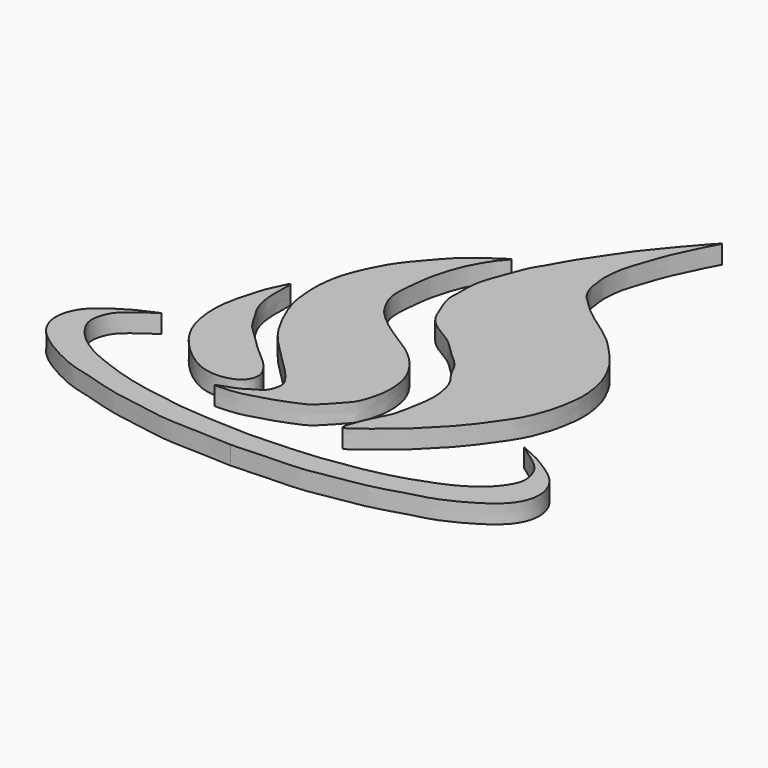
from build123d import *

# Parameters (mm, degrees)
F1_DEPTH = 0.5842


with BuildPart() as f1:
    # F0 (on Top) → F1 (new body)
    with BuildSketch(Plane.XY):
        with BuildLine():
            add(Edge.make_bspline(
                [(-4.3409126811, 0.8235150017), (-4.3638831654, 0.8328154626), (-4.4785320566, 0.5770251955), (-4.6622274709, 0.2269415499), (-4.8581053313, -0.4898232788), (-5.0354593658, -1.2469129385), (-4.9222192867, -2.3739066689), (-4.3654501317, -3.2620627935), (-3.4560117167, -4.02535282), (-2.7699137962, -4.1455398343), (-2.4004253735, -4.0835943094), (-2.0639183025, -3.9548409023), (-1.8790579169, -3.6670637842), (-1.8795913256, -3.325562636), (-2.2374478718, -2.843176857), (-2.7864582925, -2.4255477872), (-3.1893458529, -1.9868189477), (-3.6803623412, -1.5695431559), (-3.8882612208, -1.18309249), (-4.1979864203, -0.7090708682), (-4.3198954975, -0.1915194674), (-4.3461730169, 0.2774615729), (-4.3076349978, 0.8100412852), (-4.3409126811, 0.8235150017)],
                knots=[0, 0, 0, 0, 0.029960692, 0.0720755119, 0.1254410697, 0.1816633906, 0.2472377289, 0.3120818992, 0.3800778207, 0.4312008069, 0.4691196187, 0.5060143746, 0.5413555971, 0.5764363354, 0.6243116539, 0.6770139401, 0.7262003703, 0.7759363067, 0.8177459305, 0.8646733635, 0.9097553394, 0.9565954987, 1, 1, 1, 1], degree=3))
        make_face()
    extrude(amount=F1_DEPTH)


with BuildPart() as f1b:
    # F0 (on Top) → F1, piece 2 (new body)
    with BuildSketch(Plane.XY):
        with BuildLine():
            add(Edge.make_bspline(
                [(-0.9033490205, 5.2720510866), (-0.9279823558, 5.2907388524), (-1.601067188, 4.8222579912), (-2.0133987526, 4.495511311), (-2.6203693973, 3.7953321275), (-3.0955012862, 3.2286000559), (-3.5113334289, 2.3745012416), (-3.6884009297, 1.8207103822), (-3.7791912725, 1.1815485297), (-3.7380409609, 0.5647163974), (-3.6749609254, 0.0574472654), (-3.3879425603, -0.6653436776), (-2.9399249124, -1.5211470384), (-2.1640246735, -2.2627692494), (-1.5097005527, -2.9206157649), (-1.3424440841, -3.1131961216), (-1.1478161327, -3.3876763119), (-1.1154145654, -3.5935645943), (-1.21416015, -4.0050790879), (-1.5725488375, -4.1597466188), (-1.766471688, -4.3147063638), (-1.9958105817, -4.3980403052), (-2.2293944508, -4.4959747287), (-2.6114781549, -4.5989941223), (-1.6730451577, -4.5631360498), (-1.2595041701, -4.3891000168), (-0.7872921269, -4.2878050682), (-0.2280275202, -4.0533826785), (0.1105048146, -3.9155064576), (0.5430619067, -3.4360310153), (0.8928727293, -3.0809587886), (1.0357752487, -2.6047892816), (1.1417555648, -2.0985146124), (1.0542657775, -1.1974842231), (0.4145184934, -0.3746388083), (-0.2281413252, 0.0734033036), (-1.0039304524, 0.5404110445), (-1.3569055763, 0.8580253942), (-1.6354892893, 1.112340462), (-1.8387799209, 1.4884599777), (-2.01665344, 1.8707203932), (-1.9810714704, 2.494437832), (-1.9228061153, 2.9113756773), (-1.8901832964, 3.253129347), (-1.7496316322, 3.7571486011), (-1.64932091, 4.0492154316), (-1.5274158439, 4.3668539259), (-1.1750950129, 4.9621427665), (-1.0239242979, 5.1152905075), (-0.8919001164, 5.2633655215), (-0.9033490205, 5.2720510866)],
                knots=[0, 0, 0, 0, 0.0245603338, 0.0481947265, 0.0751417918, 0.1007052008, 0.1285097117, 0.1507506118, 0.1737751972, 0.1964095567, 0.2169482626, 0.2421456121, 0.2706057713, 0.301302539, 0.3286411923, 0.3433916942, 0.3594638932, 0.3727346847, 0.3906876189, 0.4083670209, 0.4227400709, 0.4367024619, 0.4524477819, 0.464509468, 0.4882021287, 0.5094255836, 0.5292224362, 0.5515282692, 0.5691776219, 0.5920479487, 0.6126830091, 0.6324621162, 0.653203656, 0.6802782686, 0.7093801941, 0.7354524903, 0.7627824851, 0.7826679011, 0.8001152128, 0.8187531655, 0.8375663006, 0.8602595707, 0.879034597, 0.8960600502, 0.9168732374, 0.9328194582, 0.9499492842, 0.9737101245, 0.988585025, 1, 1, 1, 1], degree=3))
        make_face()
    extrude(amount=F1_DEPTH)


with BuildPart() as f1c:
    # F0 (on Top) → F1, piece 3 (new body)
    with BuildSketch(Plane.XY):
        with BuildLine():
            add(Edge.make_bspline(
                [(-0.0494266093, 5.5272457981), (-0.1218350109, 5.4085314828), (-0.278482645, 5.186838474), (-0.4343362878, 4.7363992233), (-0.5599437028, 4.3874003778), (-0.8356784365, 3.691325428), (-0.7806786781, 3.0090164508), (-0.8444665371, 2.6678563826), (-0.5809721487, 1.9963362907), (-0.3909314077, 1.5652937893), (-0.0133795377, 1.2347286799), (0.6426124518, 0.8970347753), (1.0280875762, 0.4213200711), (1.5700318355, 0.023211373), (1.7546364731, -0.4918969363), (2.073461996, -0.8027231166), (2.2656548038, -1.6308230398), (2.1277467217, -2.3516150221), (2.0120337094, -3.0472971545), (1.7631853402, -3.4148087736), (1.3898742318, -4.3170203821), (1.4624504838, -4.3721881229)],
                knots=[0.6798154523, 0.6798154523, 0.6798154523, 0.6798154523, 0.6934369603, 0.7084823768, 0.7220783824, 0.7411179752, 0.7591668807, 0.7721437093, 0.7905084414, 0.8057883023, 0.8211011729, 0.8399102841, 0.8573391705, 0.8752023157, 0.8910562275, 0.9055537836, 0.9253559543, 0.9447231724, 0.9624291529, 0.9790106218, 1, 1, 1, 1], degree=3))
            add(Edge.make_bspline(
                [(1.4624504838, -4.3721881229), (1.5020962664, -4.4023242652), (1.7235511679, -4.2162377946), (1.826643907, -4.1560159103), (2.2371734743, -3.8537370522), (2.4338796023, -3.6414263579), (2.7863222447, -3.3966190795), (2.9272559401, -3.2086453557), (3.4380997701, -2.7428824022), (3.7619606591, -2.3549656925), (3.9987188552, -2.0513475586), (4.2254136288, -1.7335050143), (4.4861622473, -1.3519910979), (4.6920591732, -1.0029199492), (4.9141267034, -0.4025614485), (4.9890051064, 0.0067921248), (5.0781916133, 0.5320916491), (5.043343058, 1.0181288643), (4.9525400934, 1.4864984154), (4.792488769, 1.8915793843), (4.4979916871, 2.4610446678), (4.0504256811, 2.9366261403), (3.5738916003, 3.4583073755), (2.9113141266, 3.9038707842), (2.3940735967, 4.2774584892), (2.0873825516, 4.5751001046), (1.7190843077, 4.9197729549), (1.5562276459, 5.3460703549), (1.5109164877, 5.8262505652), (1.5006377241, 6.0172135994), (1.5356111535, 6.3705628583), (1.5894694945, 6.6766368462), (1.7121155992, 7.0241783091), (1.8308484388, 7.3791162285), (1.9927173449, 7.855992333), (2.1537022094, 8.1688449506), (2.3602830801, 8.6250536068), (2.493635141, 8.8930968871), (2.7683719499, 9.3666169676), (2.1688480606, 8.6575300529), (1.9052232794, 8.3750839168), (1.6799210394, 8.069333157), (1.4203683935, 7.7856469672), (1.152712394, 7.4419900211), (0.8512999285, 6.9704658529), (0.6033137997, 6.6283553723), (0.2290828757, 6.0582380656), (0.0492706925, 5.6905711629), (-0.0443716324, 5.5355334844), (-0.0494266093, 5.5272457981)],
                knots=[0, 0, 0, 0, 0.0114657384, 0.0205538178, 0.035700569, 0.0483575671, 0.0622200075, 0.0732071756, 0.0913286559, 0.1074146374, 0.1208690944, 0.1346735128, 0.1495117479, 0.1638060087, 0.1812311337, 0.1957282763, 0.2116135468, 0.2271383012, 0.2421827278, 0.2567479425, 0.2742583259, 0.2921375838, 0.3107002569, 0.3305461403, 0.348088542, 0.3625073536, 0.3778760764, 0.3929583905, 0.4079794459, 0.4177822337, 0.4306240455, 0.4431600963, 0.4563497147, 0.470066842, 0.4855474674, 0.4989474215, 0.5141884901, 0.5275859938, 0.5389011418, 0.5563899476, 0.5717104931, 0.5848186875, 0.5984234306, 0.6131247541, 0.6294648663, 0.6440170465, 0.6621649464, 0.6788645073, 0.6798154523, 0.6798154523, 0.6798154523, 0.6798154523], degree=3))
        make_face()
    extrude(amount=F1_DEPTH)


with BuildPart() as f1d:
    # F0 (on Top) → F1, piece 4 (new body)
    with BuildSketch(Plane.XY):
        with BuildLine():
            add(Edge.make_bspline(
                [(-5.8600385673, -2.3792907596), (-6.0527758314, -2.5115119147), (-6.5075346665, -2.8234821356), (-6.8828172226, -3.1739471336), (-7.0507541362, -3.7756684964), (-6.8370696363, -4.2223132645), (-6.4467168512, -4.6856149853), (-5.794834382, -5.0882465882), (-5.2236284604, -5.3136284816), (-4.4870752267, -5.5807697737), (-3.8715953267, -5.7234133152), (-3.5773211605, -5.7921165394), (-2.4830761417, -5.9617137095), (-2.3144532073, -5.9816128357), (-1.7196691849, -6.0319875708), (-1.5960028503, -6.0408920355), (-1.4247877109, -6.0521947677), (-1.0368340555, -6.0694378416), (-0.451109519, -6.093693155), (-0.1244624145, -6.1044190079)],
                knots=[0, 0, 0, 0, 0.0715418106, 0.1303085415, 0.1913210664, 0.2468454398, 0.3098047629, 0.3802148709, 0.4444532684, 0.5169503011, 0.5794622094, 0.6275975246, 0.7104408454, 0.7501980031, 0.8106343792, 0.8402842717, 0.8713668679, 0.9212438911, 1, 1, 1, 1], degree=3))
            add(Edge.make_bspline(
                [(-5.8600385673, -2.3792907596), (-6.0788389095, -2.4719771325), (-6.5006661689, -2.650668072), (-7.0009732214, -2.9777023027), (-7.5581703969, -3.3795728437), (-7.8451419065, -4.0621419502), (-7.6740638103, -4.7852590686), (-7.0102329455, -5.394161721), (-5.860881788, -5.9748267909), (-5.2456340881, -6.0782309187), (-4.2182575516, -6.4377462844), (-3.3569956627, -6.5243728035), (-2.4220530145, -6.7435891806), (-1.4598632785, -6.7600518978), (-0.6747261487, -6.7874728787), (-0.2960682565, -6.8079348675), (-0.1244624145, -6.8172081374)],
                knots=[0, 0, 0, 0, 0.0666580125, 0.128510616, 0.1940573158, 0.2607525228, 0.3264503603, 0.4023827252, 0.4919746812, 0.5565189192, 0.6381990459, 0.7137018849, 0.7915582814, 0.8705778977, 0.9413465577, 1, 1, 1, 1], degree=3))
            add(Edge.make_bspline(
                [(5.6111137383, -2.3792907596), (5.8299140804, -2.4719771325), (6.2517413398, -2.650668072), (6.7520483923, -2.9777023027), (7.3092455678, -3.3795728437), (7.5962170774, -4.0621419502), (7.4251389812, -4.7852590686), (6.7613081164, -5.394161721), (5.6119569589, -5.9748267909), (4.996709259, -6.0782309187), (3.9693327225, -6.4377462844), (3.1080708336, -6.5243728035), (2.1731281855, -6.7435891806), (1.2109384494, -6.7600518978), (0.4258013196, -6.7874728787), (0.0471434275, -6.8079348675), (-0.1244624145, -6.8172081374)],
                knots=[0, 0, 0, 0, 0.0666580125, 0.128510616, 0.1940573158, 0.2607525228, 0.3264503603, 0.4023827252, 0.4919746812, 0.5565189192, 0.6381990459, 0.7137018849, 0.7915582814, 0.8705778977, 0.9413465577, 1, 1, 1, 1], degree=3))
            add(Edge.make_bspline(
                [(5.6111137383, -2.3792907596), (5.8038510023, -2.5115119147), (6.2586098374, -2.8234821356), (6.6338923935, -3.1739471336), (6.8018293071, -3.7756684964), (6.5881448072, -4.2223132645), (6.1977920222, -4.6856149853), (5.5459095529, -5.0882465882), (4.9747036313, -5.3136284816), (4.2381503976, -5.5807697737), (3.6226704976, -5.7234133152), (3.3283963315, -5.7921165394), (2.2341513126, -5.9617137095), (2.0655283782, -5.9816128357), (1.4707443559, -6.0319875708), (1.3470780212, -6.0408920355), (1.1758628818, -6.0521947677), (0.7879092265, -6.0694378416), (0.2021846899, -6.093693155), (-0.1244624145, -6.1044190079)],
                knots=[0, 0, 0, 0, 0.0715418106, 0.1303085415, 0.1913210664, 0.2468454398, 0.3098047629, 0.3802148709, 0.4444532684, 0.5169503011, 0.5794622094, 0.6275975246, 0.7104408454, 0.7501980031, 0.8106343792, 0.8402842717, 0.8713668679, 0.9212438911, 1, 1, 1, 1], degree=3))
        make_face()
    extrude(amount=F1_DEPTH)


solid = Compound([f1.part, f1b.part, f1c.part, f1d.part])
